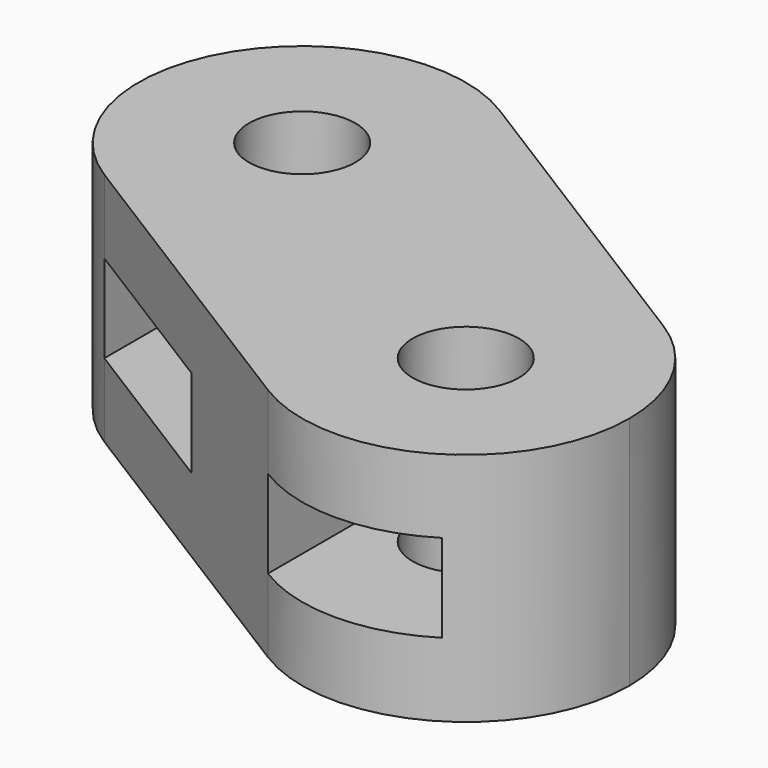
from build123d import *

# Parameters (mm, degrees)
F0_R     = 2.6
F1_DEPTH = 11.5
F3_W     = 8.5
F3_H     = 10
F3_H_2   = 9.3
F4_DEPTH = 2.15


with BuildPart() as f1:
    # F0 (on Top) → F1 (new body)
    with BuildSketch(Plane.XY):
        with BuildLine():
            ThreePointArc((-4.23999152, -6.783986432), (3.8781482591, -6.99713985), (8, 0))
            ThreePointArc((8, 0), (6.99713985, 3.8781482591), (4.23999152, 6.783986432))
            ThreePointArc((4.23999152, 6.783986432), (-6.783986432, 4.23999152), (-4.23999152, -6.783986432))
        make_face()
        Circle(F0_R, mode=Mode.SUBTRACT)
        with BuildLine():
            ThreePointArc((4.23999152, 6.783986432), (6.99713985, 3.8781482591), (8, 0))
            ThreePointArc((8, 0), (3.8781482591, -6.99713985), (-4.23999152, -6.783986432))
            Line((-4.23999152, -6.783986432), (11.76000848, -16.783986432))
            ThreePointArc((11.76000848, -16.783986432), (9.216013568, -5.76000848), (20.23999152, -3.216013568))
            Line((20.23999152, -3.216013568), (4.23999152, 6.783986432))
        make_face()
        with BuildLine():
            ThreePointArc((24, -10), (22.99713985, -6.1218517409), (20.23999152, -3.216013568))
            ThreePointArc((20.23999152, -3.216013568), (9.216013568, -5.76000848), (11.76000848, -16.783986432))
            ThreePointArc((11.76000848, -16.783986432), (19.8781482591, -16.99713985), (24, -10))
        make_face()
        with Locations((16, -10)):
            Circle(F0_R, mode=Mode.SUBTRACT)
    extrude(amount=F1_DEPTH)

    # F3 (on mid) → F4 (cut, symmetric)
    with BuildSketch(Plane.XY.offset(5.75)):
        with Locations((0, -9.65)):
            Rectangle(F3_W, F3_H)
        Rectangle(F3_W, F3_H_2)
        with Locations((16, -19.65)):
            Rectangle(F3_W, F3_H)
        with Locations((16, -10)):
            Rectangle(F3_W, F3_H_2)
    extrude(amount=F4_DEPTH, both=True, mode=Mode.SUBTRACT)


solid = f1.part
